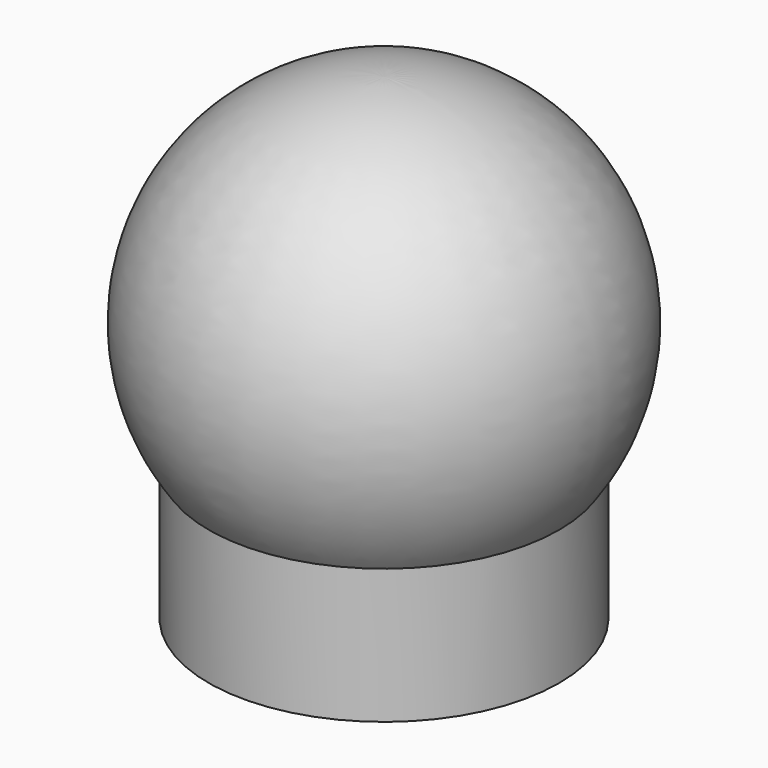
from build123d import *

# Parameters (mm, degrees)
F2_R     = 3
F3_DEPTH = 4


with BuildPart() as f1:
    # F0 (on Front) → F1 (revolve)
    with BuildSketch(Plane.XZ):
        with BuildLine():
            Line((3, -4.66369), (6.5, -4.66369))
            ThreePointArc((6.5, -4.66369), (7.117216, 3.653114), (0, 8))
            Line((0, 8), (0, 5.33631))
            Line((0, 5.33631), (3, 5.33631))
            Line((3, 5.33631), (3, -4.66369))
        make_face()
        with BuildLine():
            Line((3, -4.66369), (3, -7.416198))
            ThreePointArc((3, -7.416198), (4.945359, -6.288356), (6.5, -4.66369))
            Line((6.5, -4.66369), (3, -4.66369))
        make_face()
        with BuildLine():
            ThreePointArc((6.5, -4.66369), (4.945359, -6.288356), (3, -7.416198))
            Line((3, -7.416198), (3, -9.66369))
            Line((3, -9.66369), (6.5, -9.66369))
            Line((6.5, -9.66369), (6.5, -4.66369))
        make_face()
    revolve(axis=Axis((0, 0, 6.708951), (0, 0, -1)))

    # F2 (on face) → F3 (cut)
    with BuildSketch(Plane(origin=(0, 0, -9.66369), x_dir=(1, 0, 0), z_dir=(0, 0, -1))):
        Polygon((-2.886751, 5), (-5.773503, 0), (-2.886751, -5), (2.886751, -5), (5.773503, 0), (2.886751, 5), align=None)
        Circle(F2_R, mode=Mode.SUBTRACT)
    extrude(amount=-F3_DEPTH, mode=Mode.SUBTRACT)


solid = f1.part
